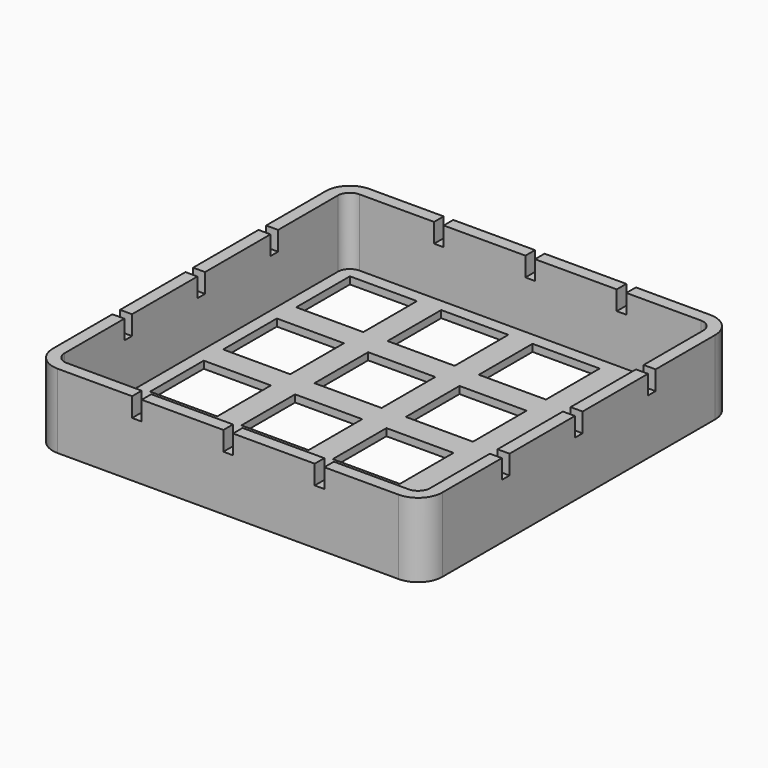
from build123d import *

# Parameters (mm, degrees)
SKETCH_W        = 81.25
SKETCH_H        = 81.25
SKETCH_W_2      = 14
SKETCH_H_2      = 14
PAD_DEPTH       = 1.5
SKETCH001_W     = 81.25
SKETCH001_H     = 81.25
SKETCH001_W_2   = 76.25
SKETCH001_H_2   = 76.25
PAD001_DEPTH    = 14
FILLET_R        = 5.05
FILLET001_R     = 2.5
SKETCH002_W     = 2
SKETCH002_H     = 4
POCKET_DEPTH    = 85
SKETCH003_W     = 2
SKETCH003_H     = 4
POCKET001_DEPTH = 86


with BuildPart() as part:
    # Sketch → Pad (new body)
    with BuildSketch(Plane.XY):
        with Locations((40.625, 40.625)):
            Rectangle(SKETCH_W, SKETCH_H)
        with Locations((12.05, 69.2)):
            Rectangle(SKETCH_W_2, SKETCH_H_2, mode=Mode.SUBTRACT)
        with Locations((31.1, 69.2)):
            Rectangle(SKETCH_W_2, SKETCH_H_2, mode=Mode.SUBTRACT)
        with Locations((50.15, 69.2)):
            Rectangle(SKETCH_W_2, SKETCH_H_2, mode=Mode.SUBTRACT)
        with Locations((69.2, 69.2)):
            Rectangle(SKETCH_W_2, SKETCH_H_2, mode=Mode.SUBTRACT)
        with Locations((12.05, 50.15)):
            Rectangle(SKETCH_W_2, SKETCH_H_2, mode=Mode.SUBTRACT)
        with Locations((31.1, 50.15)):
            Rectangle(SKETCH_W_2, SKETCH_H_2, mode=Mode.SUBTRACT)
        with Locations((50.15, 50.15)):
            Rectangle(SKETCH_W_2, SKETCH_H_2, mode=Mode.SUBTRACT)
        with Locations((69.2, 50.15)):
            Rectangle(SKETCH_W_2, SKETCH_H_2, mode=Mode.SUBTRACT)
        with Locations((12.05, 31.1)):
            Rectangle(SKETCH_W_2, SKETCH_H_2, mode=Mode.SUBTRACT)
        with Locations((31.1, 31.1)):
            Rectangle(SKETCH_W_2, SKETCH_H_2, mode=Mode.SUBTRACT)
        with Locations((50.15, 31.1)):
            Rectangle(SKETCH_W_2, SKETCH_H_2, mode=Mode.SUBTRACT)
        with Locations((69.2, 31.1)):
            Rectangle(SKETCH_W_2, SKETCH_H_2, mode=Mode.SUBTRACT)
        with Locations((12.05, 12.05)):
            Rectangle(SKETCH_W_2, SKETCH_H_2, mode=Mode.SUBTRACT)
        with Locations((31.1, 12.05)):
            Rectangle(SKETCH_W_2, SKETCH_H_2, mode=Mode.SUBTRACT)
        with Locations((50.15, 12.05)):
            Rectangle(SKETCH_W_2, SKETCH_H_2, mode=Mode.SUBTRACT)
        with Locations((69.2, 12.05)):
            Rectangle(SKETCH_W_2, SKETCH_H_2, mode=Mode.SUBTRACT)
    extrude(amount=PAD_DEPTH)

    # Sketch001 (on Face70 of Pad) → Pad001 (join)
    with BuildSketch(Plane.XY.offset(1.5)):
        with Locations((40.625, 40.625)):
            Rectangle(SKETCH001_W, SKETCH001_H)
        with Locations((40.625, 40.625)):
            Rectangle(SKETCH001_W_2, SKETCH001_H_2, mode=Mode.SUBTRACT)
    extrude(amount=PAD001_DEPTH)

    # Fillet
    fillet_edges = [part.edges().sort_by_distance(p)[0] for p in [
        (0, 0, 8.5),
        (81.25, 0, 8.5),
        (81.25, 81.25, 8.5),
        (0, 81.25, 8.5),
    ]]
    fillet(fillet_edges, radius=FILLET_R)

    # Fillet001
    fillet001_edges = [part.edges().sort_by_distance(p)[0] for p in [
        (2.5, 78.75, 8.5),
        (2.5, 2.5, 8.5),
        (78.75, 2.5, 8.5),
        (78.75, 78.75, 8.5),
    ]]
    fillet(fillet001_edges, radius=FILLET001_R)

    # Sketch002 (on Face10 of Fillet001) → Pocket (cut)
    with BuildSketch(Plane.XZ):
        with Locations((40.625, 13.5)):
            Rectangle(SKETCH002_W, SKETCH002_H)
        with Locations((21.575, 13.5)):
            Rectangle(SKETCH002_W, SKETCH002_H)
        with Locations((59.675, 13.5)):
            Rectangle(SKETCH002_W, SKETCH002_H)
    extrude(amount=-POCKET_DEPTH, mode=Mode.SUBTRACT)

    # Sketch003 (on Face9 of Pocket) → Pocket001 (cut)
    with BuildSketch(Plane(origin=(0, 0, 0), x_dir=(0, -1, 0), z_dir=(-1, 0, 0))):
        with Locations((-40.625, 13.5)):
            Rectangle(SKETCH003_W, SKETCH003_H)
        with Locations((-21.575, 13.5)):
            Rectangle(SKETCH003_W, SKETCH003_H)
        with Locations((-59.675, 13.5)):
            Rectangle(SKETCH003_W, SKETCH003_H)
    extrude(amount=-POCKET001_DEPTH, mode=Mode.SUBTRACT)


solid = part.part
